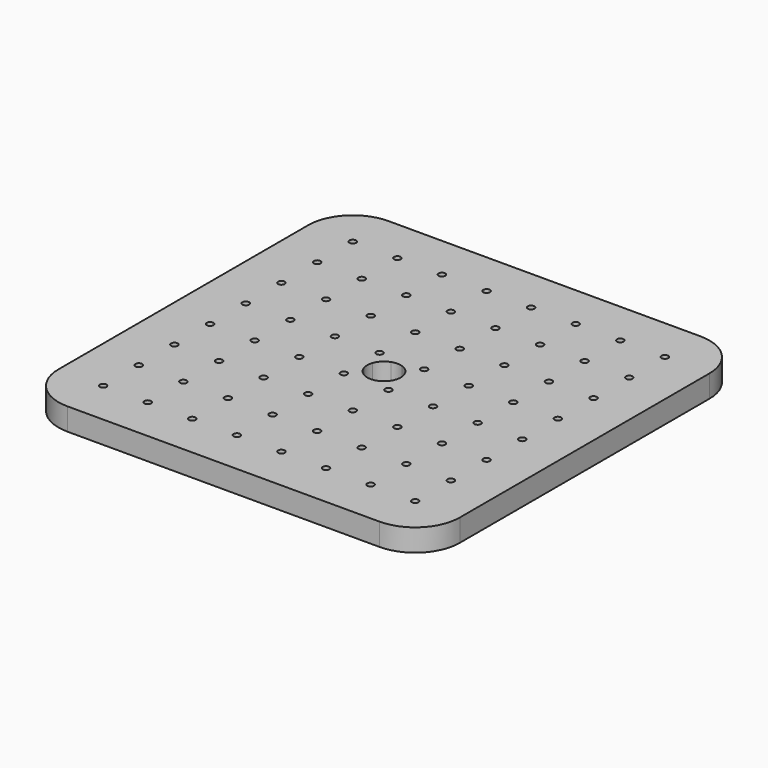
from build123d import *

# Parameters (mm, degrees)
F0_R     = 1.905
F1_DEPTH = 12.7


with BuildPart() as f1:
    # F0 (on Top) → F1 (new body)
    with BuildSketch(Plane.XY):
        with BuildLine():
            ThreePointArc((114.3, 88.9), (106.860512, 106.860512), (88.9, 114.3))
            Line((88.9, 114.3), (3.175, 114.3))
            Line((3.175, 114.3), (3.175, 8.980256))
            ThreePointArc((3.175, 8.980256), (6.735192, 6.735192), (8.980256, 3.175))
            Line((8.980256, 3.175), (114.3, 3.175))
            Line((114.3, 3.175), (114.3, 88.9))
        make_face()
        with Locations((12.7, 12.7)):
            Circle(F0_R, mode=Mode.SUBTRACT)
        with Locations((38.1, 12.7)):
            Circle(F0_R, mode=Mode.SUBTRACT)
        with Locations((12.7, 38.1)):
            Circle(F0_R, mode=Mode.SUBTRACT)
        with Locations((38.1, 38.1)):
            Circle(F0_R, mode=Mode.SUBTRACT)
        with Locations((63.5, 12.7)):
            Circle(F0_R, mode=Mode.SUBTRACT)
        with Locations((88.9, 12.7)):
            Circle(F0_R, mode=Mode.SUBTRACT)
        with Locations((63.5, 38.1)):
            Circle(F0_R, mode=Mode.SUBTRACT)
        with Locations((88.9, 38.1)):
            Circle(F0_R, mode=Mode.SUBTRACT)
        with Locations((12.7, 63.5)):
            Circle(F0_R, mode=Mode.SUBTRACT)
        with Locations((38.1, 63.5)):
            Circle(F0_R, mode=Mode.SUBTRACT)
        with Locations((12.7, 88.9)):
            Circle(F0_R, mode=Mode.SUBTRACT)
        with Locations((38.1, 88.9)):
            Circle(F0_R, mode=Mode.SUBTRACT)
        with Locations((63.5, 63.5)):
            Circle(F0_R, mode=Mode.SUBTRACT)
        with Locations((88.9, 63.5)):
            Circle(F0_R, mode=Mode.SUBTRACT)
        with Locations((63.5, 88.9)):
            Circle(F0_R, mode=Mode.SUBTRACT)
        with Locations((88.9, 88.9)):
            Circle(F0_R, mode=Mode.SUBTRACT)
        with BuildLine():
            Line((3.175, 8.980256), (3.175, 114.3))
            Line((3.175, 114.3), (-3.175, 114.3))
            Line((-3.175, 114.3), (-3.175, 8.980256))
            ThreePointArc((-3.175, 8.980256), (0, 9.525), (3.175, 8.980256))
        make_face()
        with BuildLine():
            Line((-3.175, 8.980256), (-3.175, 114.3))
            Line((-3.175, 114.3), (-88.9, 114.3))
            ThreePointArc((-88.9, 114.3), (-106.860512, 106.860512), (-114.3, 88.9))
            Line((-114.3, 88.9), (-114.3, 3.175))
            Line((-114.3, 3.175), (-8.980256, 3.175))
            ThreePointArc((-8.980256, 3.175), (-6.735192, 6.735192), (-3.175, 8.980256))
        make_face()
        with Locations((-88.9, 12.7)):
            Circle(F0_R, mode=Mode.SUBTRACT)
        with Locations((-63.5, 12.7)):
            Circle(F0_R, mode=Mode.SUBTRACT)
        with Locations((-88.9, 38.1)):
            Circle(F0_R, mode=Mode.SUBTRACT)
        with Locations((-63.5, 38.1)):
            Circle(F0_R, mode=Mode.SUBTRACT)
        with Locations((-38.1, 12.7)):
            Circle(F0_R, mode=Mode.SUBTRACT)
        with Locations((-12.7, 12.7)):
            Circle(F0_R, mode=Mode.SUBTRACT)
        with Locations((-38.1, 38.1)):
            Circle(F0_R, mode=Mode.SUBTRACT)
        with Locations((-12.7, 38.1)):
            Circle(F0_R, mode=Mode.SUBTRACT)
        with Locations((-88.9, 63.5)):
            Circle(F0_R, mode=Mode.SUBTRACT)
        with Locations((-63.5, 63.5)):
            Circle(F0_R, mode=Mode.SUBTRACT)
        with Locations((-88.9, 88.9)):
            Circle(F0_R, mode=Mode.SUBTRACT)
        with Locations((-63.5, 88.9)):
            Circle(F0_R, mode=Mode.SUBTRACT)
        with Locations((-38.1, 63.5)):
            Circle(F0_R, mode=Mode.SUBTRACT)
        with Locations((-12.7, 63.5)):
            Circle(F0_R, mode=Mode.SUBTRACT)
        with Locations((-38.1, 88.9)):
            Circle(F0_R, mode=Mode.SUBTRACT)
        with Locations((-12.7, 88.9)):
            Circle(F0_R, mode=Mode.SUBTRACT)
        with BuildLine():
            Line((114.3, -3.175), (114.3, 3.175))
            Line((114.3, 3.175), (8.980256, 3.175))
            ThreePointArc((8.980256, 3.175), (9.387826, 1.610696), (9.525, 0))
            ThreePointArc((9.525, 0), (9.387826, -1.610696), (8.980256, -3.175))
            Line((8.980256, -3.175), (114.3, -3.175))
        make_face()
        with BuildLine():
            Line((114.3, -88.9), (114.3, -3.175))
            Line((114.3, -3.175), (8.980256, -3.175))
            ThreePointArc((8.980256, -3.175), (6.735192, -6.735192), (3.175, -8.980256))
            Line((3.175, -8.980256), (3.175, -114.3))
            Line((3.175, -114.3), (88.9, -114.3))
            ThreePointArc((88.9, -114.3), (106.860512, -106.860512), (114.3, -88.9))
        make_face()
        with Locations((12.7, -88.9)):
            Circle(F0_R, mode=Mode.SUBTRACT)
        with Locations((38.1, -88.9)):
            Circle(F0_R, mode=Mode.SUBTRACT)
        with Locations((12.7, -63.5)):
            Circle(F0_R, mode=Mode.SUBTRACT)
        with Locations((38.1, -63.5)):
            Circle(F0_R, mode=Mode.SUBTRACT)
        with Locations((63.5, -88.9)):
            Circle(F0_R, mode=Mode.SUBTRACT)
        with Locations((88.9, -88.9)):
            Circle(F0_R, mode=Mode.SUBTRACT)
        with Locations((63.5, -63.5)):
            Circle(F0_R, mode=Mode.SUBTRACT)
        with Locations((88.9, -63.5)):
            Circle(F0_R, mode=Mode.SUBTRACT)
        with Locations((12.7, -38.1)):
            Circle(F0_R, mode=Mode.SUBTRACT)
        with Locations((38.1, -38.1)):
            Circle(F0_R, mode=Mode.SUBTRACT)
        with Locations((12.7, -12.7)):
            Circle(F0_R, mode=Mode.SUBTRACT)
        with Locations((38.1, -12.7)):
            Circle(F0_R, mode=Mode.SUBTRACT)
        with Locations((63.5, -38.1)):
            Circle(F0_R, mode=Mode.SUBTRACT)
        with Locations((88.9, -38.1)):
            Circle(F0_R, mode=Mode.SUBTRACT)
        with Locations((63.5, -12.7)):
            Circle(F0_R, mode=Mode.SUBTRACT)
        with Locations((88.9, -12.7)):
            Circle(F0_R, mode=Mode.SUBTRACT)
        with BuildLine():
            ThreePointArc((-8.980256, -3.175), (-9.525, 0), (-8.980256, 3.175))
            Line((-8.980256, 3.175), (-114.3, 3.175))
            Line((-114.3, 3.175), (-114.3, -3.175))
            Line((-114.3, -3.175), (-8.980256, -3.175))
        make_face()
        with BuildLine():
            ThreePointArc((-3.175, -8.980256), (-6.735192, -6.735192), (-8.980256, -3.175))
            Line((-8.980256, -3.175), (-114.3, -3.175))
            Line((-114.3, -3.175), (-114.3, -88.9))
            ThreePointArc((-114.3, -88.9), (-106.860512, -106.860512), (-88.9, -114.3))
            Line((-88.9, -114.3), (-3.175, -114.3))
            Line((-3.175, -114.3), (-3.175, -8.980256))
        make_face()
        with Locations((-88.9, -88.9)):
            Circle(F0_R, mode=Mode.SUBTRACT)
        with Locations((-63.5, -88.9)):
            Circle(F0_R, mode=Mode.SUBTRACT)
        with Locations((-88.9, -63.5)):
            Circle(F0_R, mode=Mode.SUBTRACT)
        with Locations((-63.5, -63.5)):
            Circle(F0_R, mode=Mode.SUBTRACT)
        with Locations((-38.1, -88.9)):
            Circle(F0_R, mode=Mode.SUBTRACT)
        with Locations((-12.7, -88.9)):
            Circle(F0_R, mode=Mode.SUBTRACT)
        with Locations((-38.1, -63.5)):
            Circle(F0_R, mode=Mode.SUBTRACT)
        with Locations((-12.7, -63.5)):
            Circle(F0_R, mode=Mode.SUBTRACT)
        with Locations((-88.9, -38.1)):
            Circle(F0_R, mode=Mode.SUBTRACT)
        with Locations((-63.5, -38.1)):
            Circle(F0_R, mode=Mode.SUBTRACT)
        with Locations((-88.9, -12.7)):
            Circle(F0_R, mode=Mode.SUBTRACT)
        with Locations((-63.5, -12.7)):
            Circle(F0_R, mode=Mode.SUBTRACT)
        with Locations((-38.1, -38.1)):
            Circle(F0_R, mode=Mode.SUBTRACT)
        with Locations((-12.7, -38.1)):
            Circle(F0_R, mode=Mode.SUBTRACT)
        with Locations((-38.1, -12.7)):
            Circle(F0_R, mode=Mode.SUBTRACT)
        with Locations((-12.7, -12.7)):
            Circle(F0_R, mode=Mode.SUBTRACT)
        with BuildLine():
            Line((3.175, -114.3), (3.175, -8.980256))
            ThreePointArc((3.175, -8.980256), (0, -9.525), (-3.175, -8.980256))
            Line((-3.175, -8.980256), (-3.175, -114.3))
            Line((-3.175, -114.3), (3.175, -114.3))
        make_face()
    extrude(amount=-F1_DEPTH)


solid = f1.part
